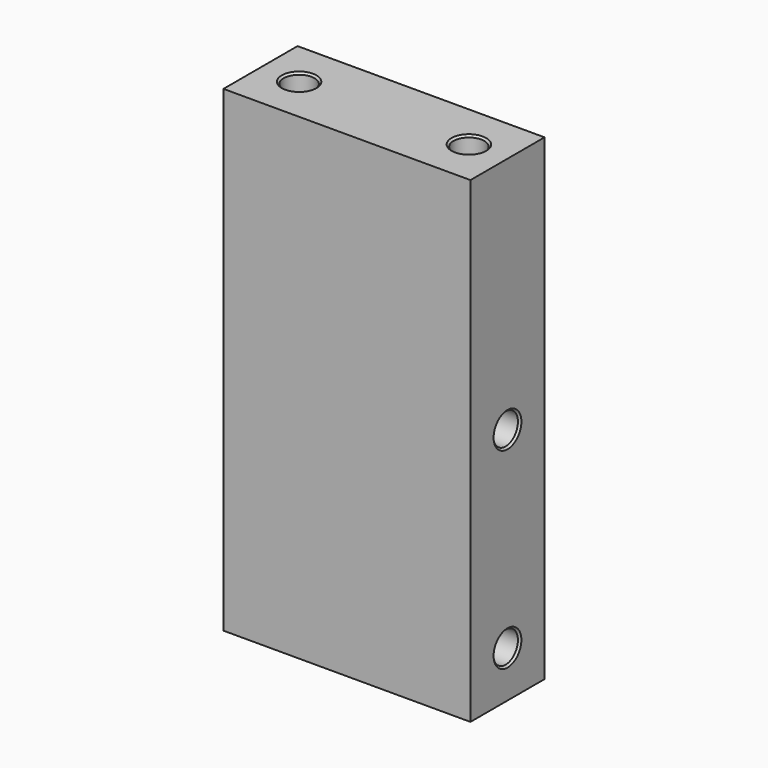
from build123d import *

# Parameters (mm, degrees)
F0_W           = 196.215
F0_H           = 38.1
F0_R           = 10.16
F0_R_2         = 6.604
F1_DEPTH       = 101.6
F2_D           = 12.7
F2_DEPTH       = 34.925
F2_CSINK_D     = 14.2875
F2_CSINK_ANGLE = 90
F2_TIP         = 3.8154649308
F3_ANGLE       = -90
F5_D           = 12.7
F5_DEPTH       = 34.925
F5_CSINK_D     = 14.2875
F5_CSINK_ANGLE = 90
F5_TIP         = 3.8154649308


with BuildPart() as f1:
    # F0 (on Top) → F1 (new body)
    with BuildSketch(Plane.XY):
        with Locations((849.6263678, -426.5737722)):
            Rectangle(F0_W, F0_H)
        with Locations((770.5688678, -426.5737722)):
            Circle(F0_R, mode=Mode.SUBTRACT)
        with Locations((849.6263678, -426.5737722)):
            Circle(F0_R, mode=Mode.SUBTRACT)
        with Locations((928.6838678, -426.5737722)):
            Circle(F0_R, mode=Mode.SUBTRACT)
        with Locations((770.5688678, -426.5737722)):
            Circle(F0_R)
        with Locations((770.5688678, -426.5737722)):
            Circle(F0_R_2, mode=Mode.SUBTRACT)
        with Locations((928.6838678, -426.5737722)):
            Circle(F0_R)
        with Locations((928.6838678, -426.5737722)):
            Circle(F0_R_2, mode=Mode.SUBTRACT)
        with Locations((849.6263678, -426.5737722)):
            Circle(F0_R)
        with Locations((849.6263678, -426.5737722)):
            Circle(F0_R_2, mode=Mode.SUBTRACT)
        with Locations((770.5688678, -426.5737722)):
            Circle(F0_R_2)
        with Locations((849.6263678, -426.5737722)):
            Circle(F0_R_2)
        with Locations((928.6838678, -426.5737722)):
            Circle(F0_R_2)
    extrude(amount=-F1_DEPTH)

    # F2
    with Locations(Plane.XY):
        with Locations((928.6838678, -426.5737722), (849.6263678, -426.5737722)):
            CounterSinkHole(F2_D / 2, F2_CSINK_D / 2, depth=F2_DEPTH, counter_sink_angle=F2_CSINK_ANGLE)
            with Locations((0, 0, -(F2_DEPTH + F2_TIP / 2))):  # 118° drill point
                Cone(0, F2_D / 2, F2_TIP, mode=Mode.SUBTRACT)


with BuildPart() as f1_1:
    # F3: moved
    add(f1.part.rotate(Axis((751.5188678, -426.5737722, 0), (0, -1, 0)), F3_ANGLE))


with BuildPart() as f1_2:
    # F4: moved
    add(f1_1.part.moved(Location((-50.8, 0, 0))))

    # F5
    with Locations(Plane.XY):
        with Locations((614.9938678, -426.5737722), (684.8438678, -426.5737722)):
            CounterSinkHole(F5_D / 2, F5_CSINK_D / 2, depth=F5_DEPTH, counter_sink_angle=F5_CSINK_ANGLE)
            with Locations((0, 0, -(F5_DEPTH + F5_TIP / 2))):  # 118° drill point
                Cone(0, F5_D / 2, F5_TIP, mode=Mode.SUBTRACT)


solid = f1_2.part
